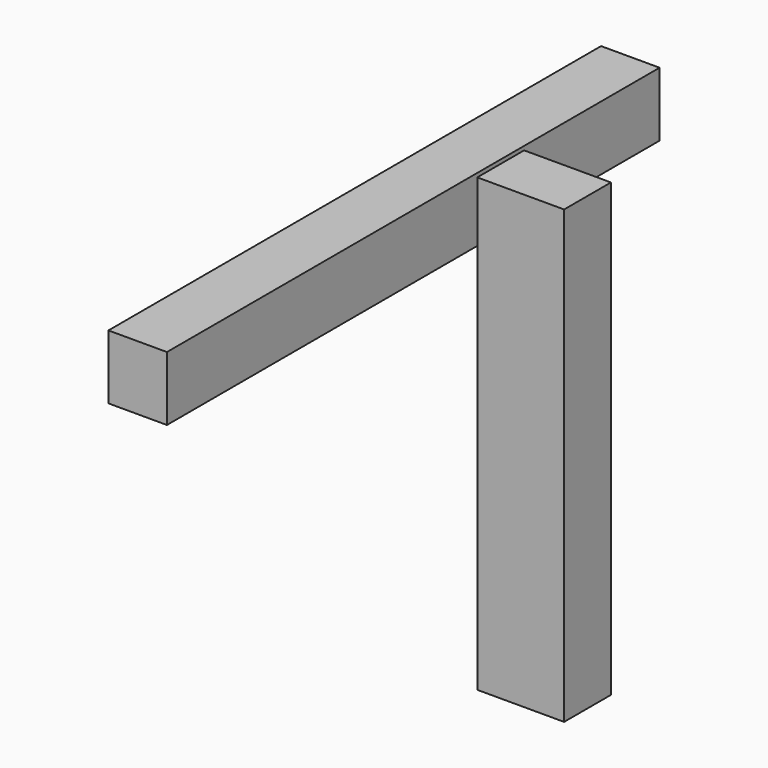
from build123d import *

# Parameters (mm, degrees)
F0_W     = 53.45191
F0_H     = 5.575805
F1_DEPTH = 5.08
F2_W     = 7.537566
F2_H     = 39.16055
F3_DEPTH = 5.08


with BuildPart() as f1:
    # F0 (on Right) → F1 (new body)
    with BuildSketch(Plane.YZ):
        with Locations((-4.393272, 31.624719)):
            Rectangle(F0_W, F0_H)
    extrude(amount=F1_DEPTH)


with BuildPart() as f3:
    # F2 (on Front) → F3 (new body)
    with BuildSketch(Plane.XZ):
        with Locations((14.955264, 19.580275)):
            Rectangle(F2_W, F2_H)
    extrude(amount=F3_DEPTH)


solid = Compound([f1.part, f3.part])
